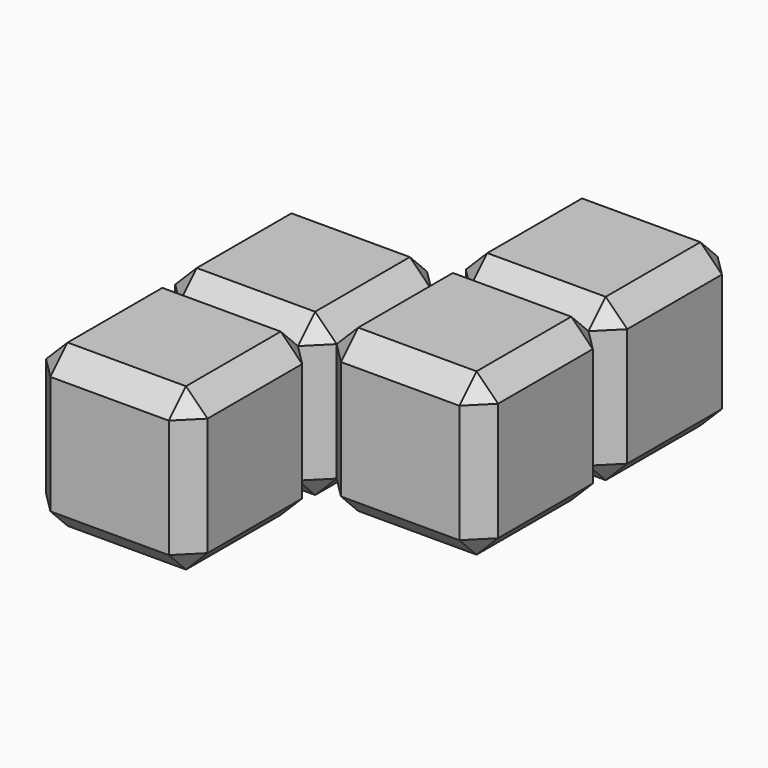
from build123d import *

# Parameters (mm, degrees)
F0_W     = 15
F0_H     = 15
F1_DEPTH = 15
F2_SIZE  = 2


with BuildPart() as f1:
    # F0 (on Front) → F1 (new body)
    with BuildSketch(Plane.XZ):
        with Locations((0.451128, 0)):
            Rectangle(F0_W, F0_H)
    extrude(amount=F1_DEPTH)

    # F2
    f2_edges = [f1.edges().sort_by_distance(p)[0] for p in [
        (7.951128, -7.5, 7.5),
        (-7.048872, -7.5, 7.5),
        (0.451128, 0, 7.5),
        (0.451128, -15, 7.5),
        (-7.048872, -15, 0),
        (0.451128, -15, -7.5),
        (7.951128, -15, 0),
        (7.951128, -7.5, -7.5),
        (7.951128, 0, 0),
        (-7.048872, 0, 0),
        (0.451128, 0, -7.5),
        (-7.048872, -7.5, -7.5),
    ]]
    chamfer(f2_edges, length=F2_SIZE)


with BuildPart() as f3_1:
    # F3: copy of F1
    add(f1.part.moved(Location((15, 0, 0))))


with BuildPart() as f4_1:
    # F4: copy of F1
    add(f1.part.moved(Location((0, 15, 0))))


with BuildPart() as f5_1:
    # F5: copy of F4_1
    add(f4_1.part.moved(Location((0, 15, 0))))


with BuildPart() as f8_1:
    # F8: copy of F4_1
    add(f4_1.part.moved(Location((15, 0, 0))))


with BuildPart() as f9_1:
    # F9: copy of F8_1
    add(f8_1.part.moved(Location((0, 15, 0))))


solid = Compound([f1.part, f4_1.part, f8_1.part, f9_1.part])
